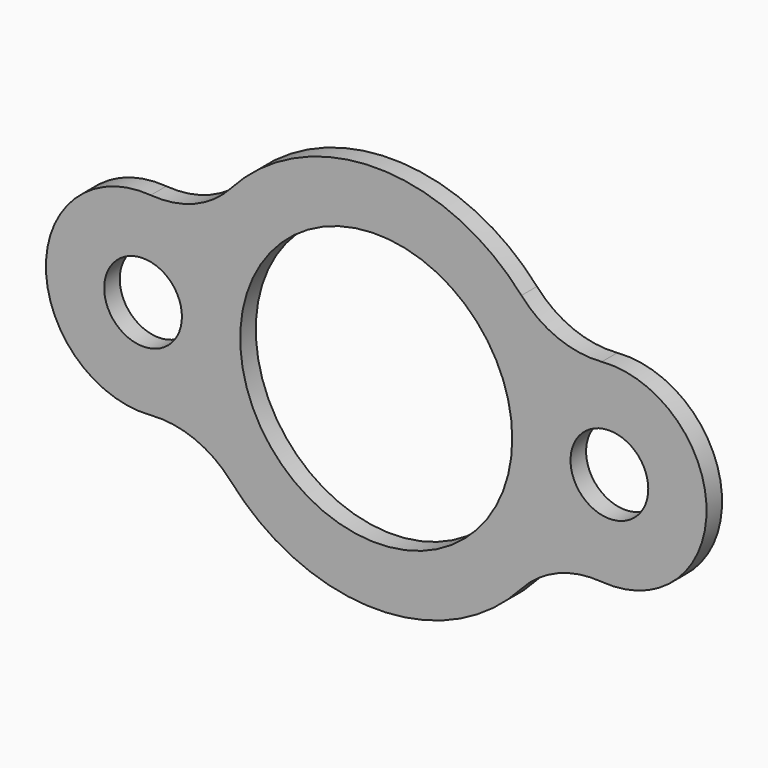
from build123d import *

# Parameters (mm, degrees)
F0_R     = 12.7
F0_R_2   = 44.45
F1_DEPTH = 6.35


with BuildPart() as f1:
    # F0 (on Front) → F1 (new body)
    with BuildSketch(Plane.XZ):
        with BuildLine():
            ThreePointArc((-73.686458, -31.650349), (-59.328071, -33.842896), (-47.448611, -42.200466))
            ThreePointArc((-47.448611, -42.200466), (0, -63.5), (47.448611, -42.200466))
            ThreePointArc((47.448611, -42.200466), (59.328071, -33.842896), (73.686458, -31.650349))
            ThreePointArc((73.686458, -31.650349), (107.95, 0), (73.686458, 31.650349))
            ThreePointArc((73.686458, 31.650349), (59.328071, 33.842896), (47.448611, 42.200466))
            ThreePointArc((47.448611, 42.200466), (0, 63.5), (-47.448611, 42.200466))
            ThreePointArc((-47.448611, 42.200466), (-59.328071, 33.842896), (-73.686458, 31.650349))
            ThreePointArc((-73.686458, 31.650349), (-107.95, 0), (-73.686458, -31.650349))
        make_face()
        with Locations((-76.2, 0)):
            Circle(F0_R, mode=Mode.SUBTRACT)
        Circle(F0_R_2, mode=Mode.SUBTRACT)
        with Locations((76.2, 0)):
            Circle(F0_R, mode=Mode.SUBTRACT)
    extrude(amount=-F1_DEPTH)


solid = f1.part
